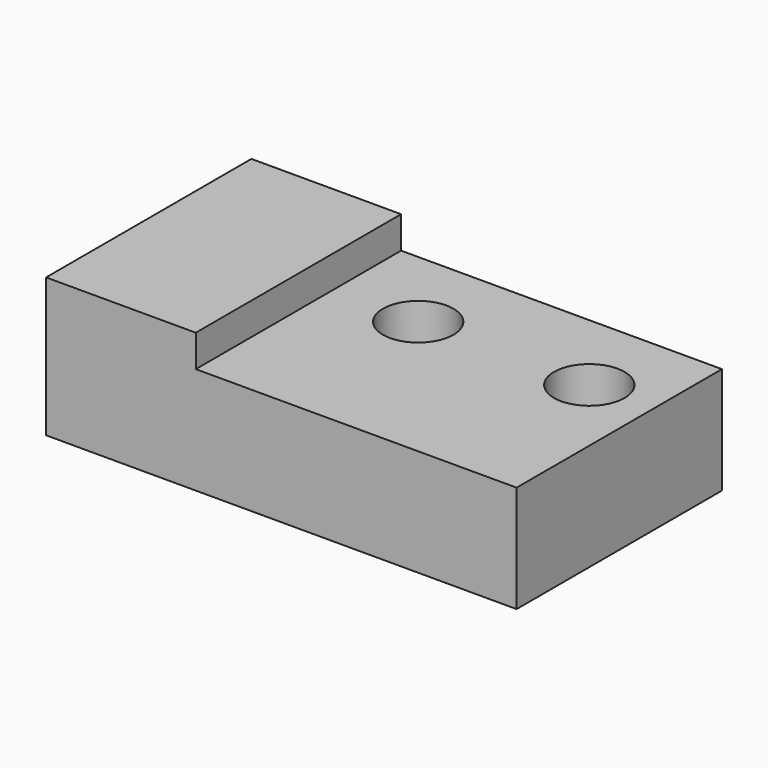
from build123d import *

# Parameters (mm, degrees)
F0_W     = 22
F0_H     = 12
F1_DEPTH = 5
F2_W     = 7
F2_H     = 12
F3_DEPTH = 1.5
F5_D     = 3.3


with BuildPart() as f1:
    # F0 (on Top) → F1 (new body)
    with BuildSketch(Plane.XY):
        with Locations((-1.241267357, 2.5510253936)):
            Rectangle(F0_W, F0_H)
    extrude(amount=F1_DEPTH)

    # F2 (on face) → F3 (join)
    with BuildSketch(Plane.XY.offset(5)):
        with Locations((-8.741267357, 2.5510253936)):
            Rectangle(F2_W, F2_H)
    extrude(amount=F3_DEPTH)

    # F5 (through all)
    with Locations(Plane.XY.offset(5)):
        with Locations((-1.241267357, 4.5510253936), (6.758732643, 4.5510253936)):
            Hole(F5_D / 2)


solid = f1.part
